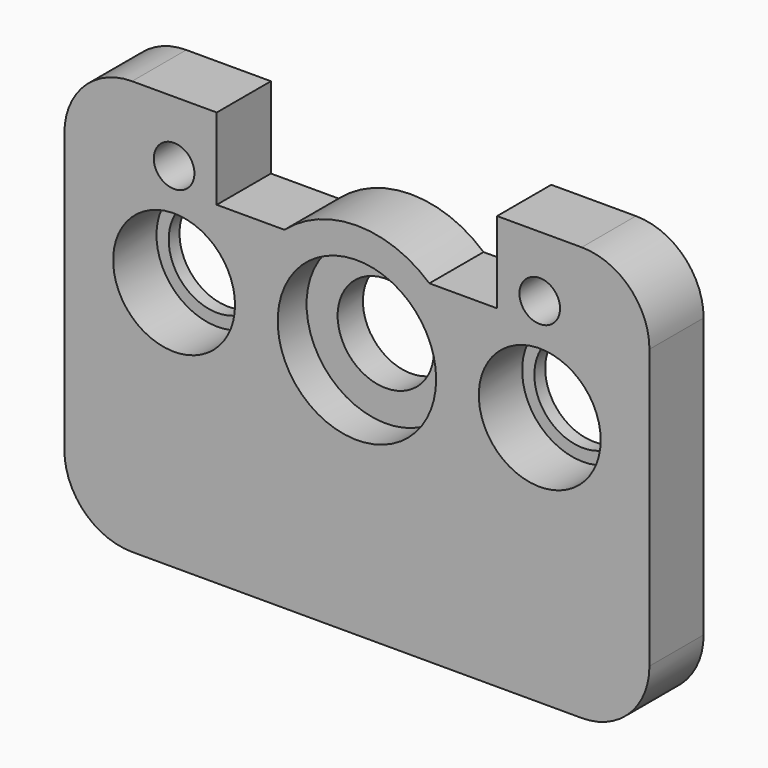
from build123d import *

# Parameters (mm, degrees)
F0_R     = 342.9
F0_R_2   = 274.32
F1_DEPTH = 76.2
F0_R_3   = 445.77
F0_R_4   = 271.026796
F2_DEPTH = 177.8
F0_R_5   = 114.3
F3_DEPTH = 381


with BuildPart() as f1:
    # F0 (on Front) → F1 (new body)
    with BuildSketch(Plane.XZ):
        with Locations((-482.696971, 560.837328)):
            Circle(F0_R)
        with Locations((-482.696971, 560.837328)):
            Circle(F0_R_2, mode=Mode.SUBTRACT)
        with Locations((1574.703029, 560.837328)):
            Circle(F0_R)
        with Locations((1574.703029, 560.837328)):
            Circle(F0_R_2, mode=Mode.SUBTRACT)
    extrude(amount=F1_DEPTH)


with BuildPart() as f2:
    # F0 (on Front) → F2 (new body)
    with BuildSketch(Plane.XZ):
        with Locations((546.003029, 560.837328)):
            Circle(F0_R_3)
        with Locations((546.003029, 560.837328)):
            Circle(F0_R_4, mode=Mode.SUBTRACT)
    extrude(amount=F2_DEPTH)


with BuildPart() as f3:
    # F0 (on Front) → F3 (new body)
    with BuildSketch(Plane.XZ):
        with BuildLine():
            Line((2191.923029, -469.254468), (2191.923029, 1100.465532))
            ThreePointArc((2191.923029, 1100.465532), (2080.330713, 1369.873215), (1810.923029, 1481.465532))
            Line((1810.923029, 1481.465532), (1498.286486, 1481.465532))
            Line((1498.286486, 1481.465532), (1334.673029, 1481.465532))
            Line((1334.673029, 1481.465532), (1334.673029, 1024.265532))
            Line((1334.673029, 1024.265532), (953.673029, 1024.265532))
            ThreePointArc((953.673029, 1024.265532), (546.003029, 1178.057328), (138.333029, 1024.265532))
            Line((138.333029, 1024.265532), (-242.666971, 1024.265532))
            Line((-242.666971, 1024.265532), (-242.666971, 1481.465532))
            Line((-242.666971, 1481.465532), (-718.916971, 1481.465532))
            ThreePointArc((-718.916971, 1481.465532), (-988.324655, 1369.873215), (-1099.916971, 1100.465532))
            Line((-1099.916971, 1100.465532), (-1099.916971, -469.254468))
            ThreePointArc((-1099.916971, -469.254468), (-988.324655, -738.662152), (-718.916971, -850.254468))
            Line((-718.916971, -850.254468), (1810.923029, -850.254468))
            ThreePointArc((1810.923029, -850.254468), (2080.330713, -738.662152), (2191.923029, -469.254468))
        make_face()
        with Locations((-482.696971, 560.837328)):
            Circle(F0_R, mode=Mode.SUBTRACT)
        with Locations((546.003029, 560.837328)):
            Circle(F0_R_3, mode=Mode.SUBTRACT)
        with Locations((-482.696971, 1138.565532)):
            Circle(F0_R_5, mode=Mode.SUBTRACT)
        with Locations((1574.703029, 560.837328)):
            Circle(F0_R, mode=Mode.SUBTRACT)
        with Locations((1574.703029, 1138.565532)):
            Circle(F0_R_5, mode=Mode.SUBTRACT)
    extrude(amount=F3_DEPTH)


solid = Compound([f1.part, f2.part, f3.part])
